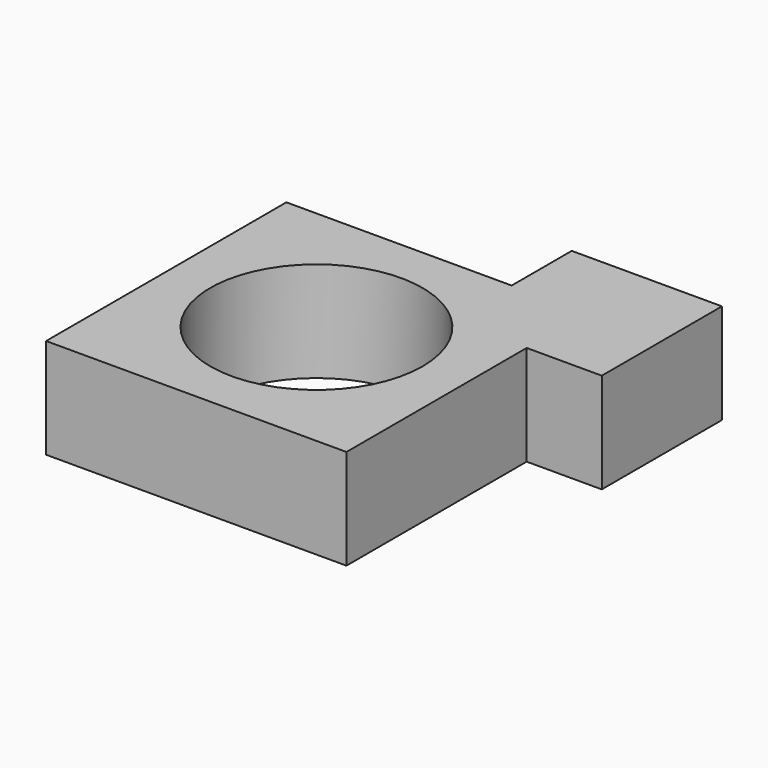
from build123d import *

# Parameters (mm, degrees)
F0_R     = 26.940768
F1_DEPTH = 25.4


with BuildPart() as f1:
    # F0 (on Top) → F1 (new body)
    with BuildSketch(Plane.XY):
        Polygon((0, 76.2), (0, 0), (76.2, 0), (76.2, 57.15), (95.25, 57.15), (95.25, 95.25), (57.15, 95.25), (57.15, 76.2), align=None)
        with Locations((38.1, 38.1)):
            Circle(F0_R, mode=Mode.SUBTRACT)
    extrude(amount=F1_DEPTH)


solid = f1.part
